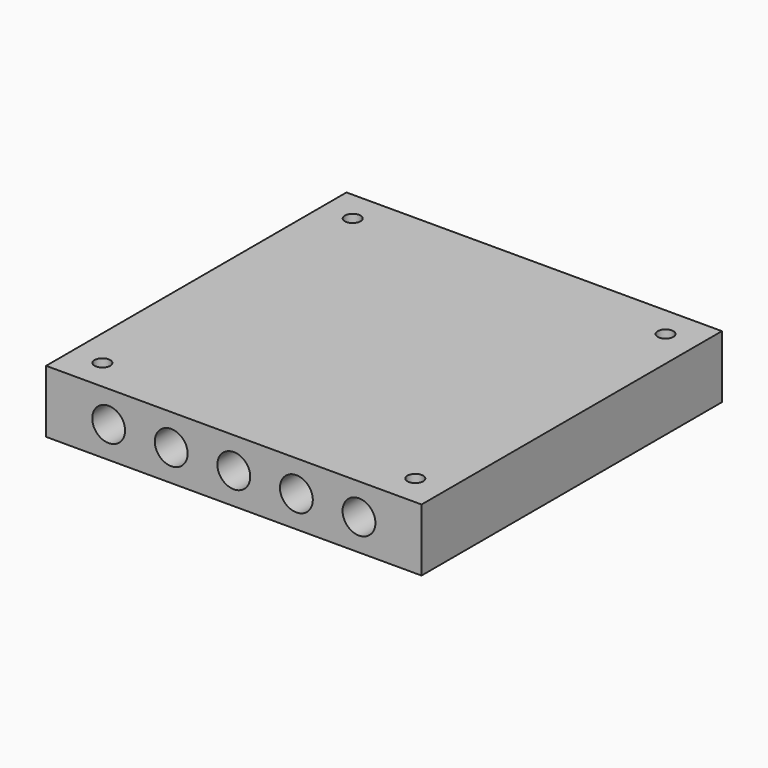
from build123d import *

# Parameters (mm, degrees)
F0_W     = 120
F0_H     = 20
F0_R     = 1.9
F0_R_2   = 5.25
F1_DEPTH = 120
F3_D     = 5
F4_DEPTH = 10
F4_TAPER = 5


with BuildPart() as f1:
    # F0 (on Front) → F1 (new body)
    with BuildSketch(Plane.XZ):
        with Locations((0, 10)):
            Rectangle(F0_W, F0_H)
        with Locations((0, 2)):
            Circle(F0_R, mode=Mode.SUBTRACT)
        with Locations((-40, 10)):
            Circle(F0_R_2, mode=Mode.SUBTRACT)
        with Locations((-20, 10)):
            Circle(F0_R_2, mode=Mode.SUBTRACT)
        with Locations((-8, 10)):
            Circle(F0_R, mode=Mode.SUBTRACT)
        with Locations((0, 10)):
            Circle(F0_R_2, mode=Mode.SUBTRACT)
        with Locations((8, 10)):
            Circle(F0_R, mode=Mode.SUBTRACT)
        with Locations((20, 10)):
            Circle(F0_R_2, mode=Mode.SUBTRACT)
        with Locations((40, 10)):
            Circle(F0_R_2, mode=Mode.SUBTRACT)
        with Locations((0, 18)):
            Circle(F0_R, mode=Mode.SUBTRACT)
        with Locations((8, 10)):
            Circle(F0_R)
        with Locations((0, 18)):
            Circle(F0_R)
        with Locations((-8, 10)):
            Circle(F0_R)
        with Locations((0, 2)):
            Circle(F0_R)
    extrude(amount=F1_DEPTH)

    # F3 (through all)
    with Locations(Plane.XY.offset(20)):
        with Locations((-50, -10), (50, -10), (-50, -110), (50, -110)):
            Hole(F3_D / 2)

    # F0 (on Front) → F4 (cut)
    with BuildSketch(Plane.XZ):
        with Locations((8, 10)):
            Circle(F0_R)
        with Locations((0, 18)):
            Circle(F0_R)
        with Locations((-8, 10)):
            Circle(F0_R)
        with Locations((0, 2)):
            Circle(F0_R)
    extrude(amount=F4_DEPTH, taper=F4_TAPER, mode=Mode.SUBTRACT)


solid = f1.part
